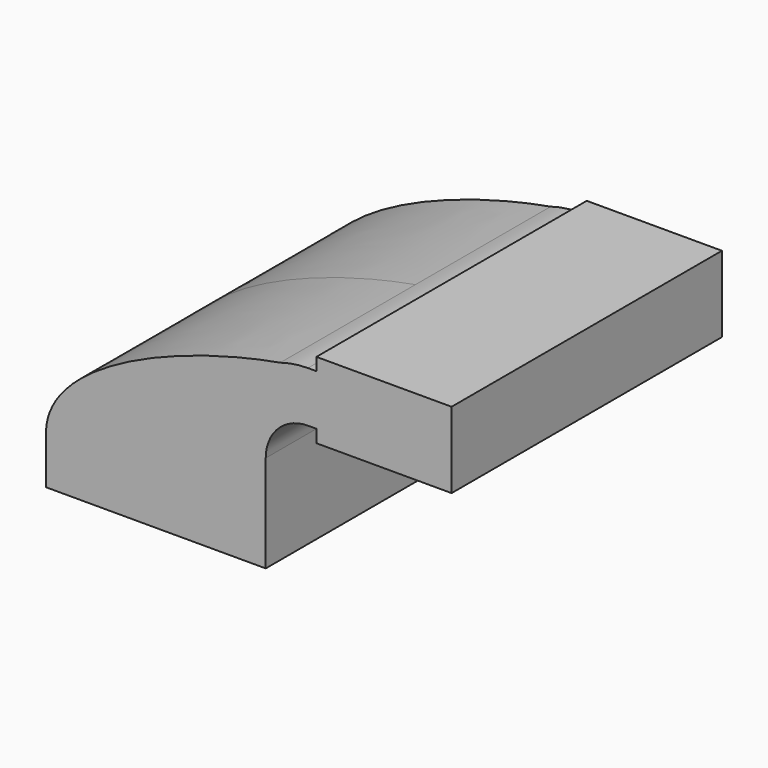
from build123d import *

# Parameters (mm, degrees)
F0_W     = 25.4
F0_H     = 4.7498
F1_DEPTH = 63.5


with BuildPart() as f1:
    # F0 (on Front) → F1 (new body, symmetric)
    with BuildSketch(Plane.XZ):
        Polygon((-41.275, 9.525), (-41.275, -9.525), (41.275, -9.525), (41.275, 9.525), (22.225, 9.525), align=None)
        with BuildLine():
            add(Edge.make_bspline(
                [(-41.275, 9.525), (-39.888401, 33.903524), (7.208093, 53.305163), (46.7394, 60.337492)],
                knots=[0, 0, 0, 0, 102.331056, 102.331056, 102.331056, 102.331056], degree=3))
            Line((-41.275, 9.525), (22.225, 9.525))
            Line((22.225, 9.525), (22.225, 27.0002))
            ThreePointArc((22.225, 27.0002), (29.013317, 47.69036), (46.7394, 60.337492))
        make_face()
        with BuildLine():
            Line((22.225, 9.525), (41.275, 9.525))
            Line((41.275, 9.525), (41.275, 27.0002))
            ThreePointArc((41.275, 27.0002), (45.92468, 38.22552), (57.15, 42.8752))
            Line((57.15, 42.8752), (60.325, 42.8752))
            Line((60.325, 42.8752), (60.325, 61.9252))
            Line((60.325, 61.9252), (57.15, 61.9252))
            add(Edge.make_bspline(
                [(46.7394, 60.337492), (50.283189, 60.967906), (53.766182, 61.498917), (57.15, 61.9252)],
                knots=[102.331056, 102.331056, 102.331056, 102.331056, 111.504536, 111.504536, 111.504536, 111.504536], degree=3))
            ThreePointArc((46.7394, 60.337492), (29.013317, 47.69036), (22.225, 27.0002))
            Line((22.225, 27.0002), (22.225, 9.525))
        make_face()
        with BuildLine():
            ThreePointArc((57.15, 61.9252), (51.884513, 61.525991), (46.7394, 60.337492))
            add(Edge.make_bspline(
                [(46.7394, 60.337492), (50.283189, 60.967906), (53.766182, 61.498917), (57.15, 61.9252)],
                knots=[102.331056, 102.331056, 102.331056, 102.331056, 111.504536, 111.504536, 111.504536, 111.504536], degree=3))
        make_face()
        Polygon((85.725, 61.9252), (60.325, 61.9252), (60.325, 42.8752), (60.325, 38.1), (85.725, 38.1), align=None)
        with Locations((73.025, 64.3001)):
            Rectangle(F0_W, F0_H)
        Polygon((85.725, 66.675), (85.725, 61.9252), (85.725, 38.1), (111.125, 38.1), (111.125, 66.675), align=None)
    extrude(amount=F1_DEPTH, both=True)


solid = f1.part
